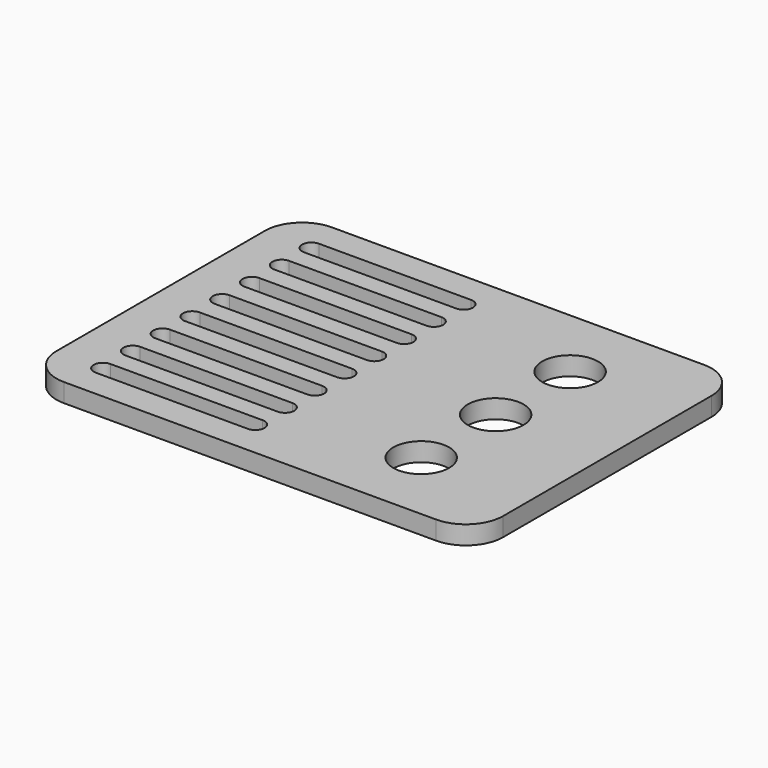
from build123d import *

# Parameters (mm, degrees)
F0_W     = 152.4
F0_H     = 114.3
F0_R     = 9.525
F1_DEPTH = 6.35
F2_R     = 12.7


with BuildPart() as f1:
    # F0 (on Top) → F1 (new body)
    with BuildSketch(Plane.XY):
        Rectangle(F0_W, F0_H)
        with BuildLine():
            Line((-8.885304, -47.623662), (-9.393304, -47.623662))
            Line((-9.393304, -47.623662), (-59.177304, -47.623662))
            ThreePointArc((-59.177304, -47.623662), (-59.307662, -47.626338), (-59.43802, -47.623662))
            Line((-59.43802, -47.623662), (-59.685304, -47.623662))
            ThreePointArc((-59.685304, -47.623662), (-59.815662, -47.626338), (-59.94602, -47.623662))
            Line((-59.94602, -47.623662), (-60.193304, -47.623662))
            ThreePointArc((-60.193304, -47.623662), (-63.499331, -44.515193), (-60.323662, -41.273662))
            Line((-60.323662, -41.273662), (-59.815662, -41.273662))
            Line((-59.815662, -41.273662), (-59.307662, -41.273662))
            Line((-59.307662, -41.273662), (-9.393304, -41.273662))
            Line((-9.393304, -41.273662), (-8.885304, -41.273662))
            Line((-8.885304, -41.273662), (-8.377304, -41.273662))
            ThreePointArc((-8.377304, -41.273662), (-5.202304, -44.448662), (-8.377304, -47.623662))
            Line((-8.377304, -47.623662), (-8.885304, -47.623662))
        make_face(mode=Mode.SUBTRACT)
        with BuildLine():
            Line((-8.885304, -34.923662), (-9.393304, -34.923662))
            Line((-9.393304, -34.923662), (-59.177304, -34.923662))
            ThreePointArc((-59.177304, -34.923662), (-59.307662, -34.926338), (-59.43802, -34.923662))
            Line((-59.43802, -34.923662), (-59.685304, -34.923662))
            ThreePointArc((-59.685304, -34.923662), (-59.815662, -34.926338), (-59.94602, -34.923662))
            Line((-59.94602, -34.923662), (-60.193304, -34.923662))
            ThreePointArc((-60.193304, -34.923662), (-63.499331, -31.815193), (-60.323662, -28.573662))
            Line((-60.323662, -28.573662), (-59.815662, -28.573662))
            Line((-59.815662, -28.573662), (-59.307662, -28.573662))
            Line((-59.307662, -28.573662), (-9.393304, -28.573662))
            Line((-9.393304, -28.573662), (-8.885304, -28.573662))
            Line((-8.885304, -28.573662), (-8.377304, -28.573662))
            ThreePointArc((-8.377304, -28.573662), (-5.202304, -31.748662), (-8.377304, -34.923662))
            Line((-8.377304, -34.923662), (-8.885304, -34.923662))
        make_face(mode=Mode.SUBTRACT)
        with BuildLine():
            Line((-8.885304, -22.223662), (-9.393304, -22.223662))
            Line((-9.393304, -22.223662), (-59.177304, -22.223662))
            ThreePointArc((-59.177304, -22.223662), (-59.307662, -22.226338), (-59.43802, -22.223662))
            Line((-59.43802, -22.223662), (-59.685304, -22.223662))
            ThreePointArc((-59.685304, -22.223662), (-59.815662, -22.226338), (-59.94602, -22.223662))
            Line((-59.94602, -22.223662), (-60.193304, -22.223662))
            ThreePointArc((-60.193304, -22.223662), (-63.499331, -19.115193), (-60.323662, -15.873662))
            Line((-60.323662, -15.873662), (-59.815662, -15.873662))
            Line((-59.815662, -15.873662), (-59.307662, -15.873662))
            Line((-59.307662, -15.873662), (-9.393304, -15.873662))
            Line((-9.393304, -15.873662), (-8.885304, -15.873662))
            Line((-8.885304, -15.873662), (-8.377304, -15.873662))
            ThreePointArc((-8.377304, -15.873662), (-5.202304, -19.048662), (-8.377304, -22.223662))
            Line((-8.377304, -22.223662), (-8.885304, -22.223662))
        make_face(mode=Mode.SUBTRACT)
        with BuildLine():
            Line((-8.885304, -9.523662), (-9.393304, -9.523662))
            Line((-9.393304, -9.523662), (-59.177304, -9.523662))
            ThreePointArc((-59.177304, -9.523662), (-59.307662, -9.526338), (-59.43802, -9.523662))
            Line((-59.43802, -9.523662), (-59.685304, -9.523662))
            ThreePointArc((-59.685304, -9.523662), (-59.815662, -9.526338), (-59.94602, -9.523662))
            Line((-59.94602, -9.523662), (-60.193304, -9.523662))
            ThreePointArc((-60.193304, -9.523662), (-63.499331, -6.415193), (-60.323662, -3.173662))
            Line((-60.323662, -3.173662), (-59.815662, -3.173662))
            Line((-59.815662, -3.173662), (-59.307662, -3.173662))
            Line((-59.307662, -3.173662), (-9.393304, -3.173662))
            Line((-9.393304, -3.173662), (-8.885304, -3.173662))
            Line((-8.885304, -3.173662), (-8.377304, -3.173662))
            ThreePointArc((-8.377304, -3.173662), (-5.202304, -6.348662), (-8.377304, -9.523662))
            Line((-8.377304, -9.523662), (-8.885304, -9.523662))
        make_face(mode=Mode.SUBTRACT)
        with Locations((38.1, -31.75)):
            Circle(F0_R, mode=Mode.SUBTRACT)
        with BuildLine():
            Line((-8.885304, 3.176338), (-9.393304, 3.176338))
            Line((-9.393304, 3.176338), (-59.177304, 3.176338))
            ThreePointArc((-59.177304, 3.176338), (-59.307662, 3.173662), (-59.43802, 3.176338))
            Line((-59.43802, 3.176338), (-59.685304, 3.176338))
            ThreePointArc((-59.685304, 3.176338), (-59.815662, 3.173662), (-59.94602, 3.176338))
            Line((-59.94602, 3.176338), (-60.193304, 3.176338))
            ThreePointArc((-60.193304, 3.176338), (-63.499331, 6.284807), (-60.323662, 9.526338))
            Line((-60.323662, 9.526338), (-59.815662, 9.526338))
            Line((-59.815662, 9.526338), (-59.307662, 9.526338))
            Line((-59.307662, 9.526338), (-9.393304, 9.526338))
            Line((-9.393304, 9.526338), (-8.885304, 9.526338))
            Line((-8.885304, 9.526338), (-8.377304, 9.526338))
            ThreePointArc((-8.377304, 9.526338), (-5.202304, 6.351338), (-8.377304, 3.176338))
            Line((-8.377304, 3.176338), (-8.885304, 3.176338))
        make_face(mode=Mode.SUBTRACT)
        with BuildLine():
            Line((-8.885304, 15.876338), (-9.393304, 15.876338))
            Line((-9.393304, 15.876338), (-59.177304, 15.876338))
            ThreePointArc((-59.177304, 15.876338), (-59.307662, 15.873662), (-59.43802, 15.876338))
            Line((-59.43802, 15.876338), (-59.685304, 15.876338))
            ThreePointArc((-59.685304, 15.876338), (-59.815662, 15.873662), (-59.94602, 15.876338))
            Line((-59.94602, 15.876338), (-60.193304, 15.876338))
            ThreePointArc((-60.193304, 15.876338), (-63.499331, 18.984807), (-60.323662, 22.226338))
            Line((-60.323662, 22.226338), (-59.815662, 22.226338))
            Line((-59.815662, 22.226338), (-59.307662, 22.226338))
            Line((-59.307662, 22.226338), (-9.393304, 22.226338))
            Line((-9.393304, 22.226338), (-8.885304, 22.226338))
            Line((-8.885304, 22.226338), (-8.377304, 22.226338))
            ThreePointArc((-8.377304, 22.226338), (-5.202304, 19.051338), (-8.377304, 15.876338))
            Line((-8.377304, 15.876338), (-8.885304, 15.876338))
        make_face(mode=Mode.SUBTRACT)
        with BuildLine():
            Line((-8.885304, 28.576338), (-9.393304, 28.576338))
            Line((-9.393304, 28.576338), (-59.177304, 28.576338))
            ThreePointArc((-59.177304, 28.576338), (-59.307662, 28.573662), (-59.43802, 28.576338))
            Line((-59.43802, 28.576338), (-59.685304, 28.576338))
            ThreePointArc((-59.685304, 28.576338), (-59.815662, 28.573662), (-59.94602, 28.576338))
            Line((-59.94602, 28.576338), (-60.193304, 28.576338))
            ThreePointArc((-60.193304, 28.576338), (-63.499331, 31.684807), (-60.323662, 34.926338))
            Line((-60.323662, 34.926338), (-59.815662, 34.926338))
            Line((-59.815662, 34.926338), (-59.307662, 34.926338))
            Line((-59.307662, 34.926338), (-9.393304, 34.926338))
            Line((-9.393304, 34.926338), (-8.885304, 34.926338))
            Line((-8.885304, 34.926338), (-8.377304, 34.926338))
            ThreePointArc((-8.377304, 34.926338), (-5.202304, 31.751338), (-8.377304, 28.576338))
            Line((-8.377304, 28.576338), (-8.885304, 28.576338))
        make_face(mode=Mode.SUBTRACT)
        with BuildLine():
            Line((-8.885304, 41.276338), (-9.393304, 41.276338))
            Line((-9.393304, 41.276338), (-59.177304, 41.276338))
            ThreePointArc((-59.177304, 41.276338), (-59.307662, 41.273662), (-59.43802, 41.276338))
            Line((-59.43802, 41.276338), (-59.685304, 41.276338))
            ThreePointArc((-59.685304, 41.276338), (-59.815662, 41.273662), (-59.94602, 41.276338))
            Line((-59.94602, 41.276338), (-60.193304, 41.276338))
            ThreePointArc((-60.193304, 41.276338), (-63.499331, 44.384807), (-60.323662, 47.626338))
            Line((-60.323662, 47.626338), (-59.815662, 47.626338))
            Line((-59.815662, 47.626338), (-59.307662, 47.626338))
            Line((-59.307662, 47.626338), (-9.393304, 47.626338))
            Line((-9.393304, 47.626338), (-8.885304, 47.626338))
            Line((-8.885304, 47.626338), (-8.377304, 47.626338))
            ThreePointArc((-8.377304, 47.626338), (-5.202304, 44.451338), (-8.377304, 41.276338))
            Line((-8.377304, 41.276338), (-8.885304, 41.276338))
        make_face(mode=Mode.SUBTRACT)
        with Locations((38.1, 0)):
            Circle(F0_R, mode=Mode.SUBTRACT)
        with Locations((38.1, 31.75)):
            Circle(F0_R, mode=Mode.SUBTRACT)
    extrude(amount=F1_DEPTH)

    # F2
    f2_edges = [f1.edges().sort_by_distance(p)[0] for p in [
        (-76.2, 57.15, 3.175),
        (-76.2, -57.15, 3.175),
        (76.2, 57.15, 3.175),
        (76.2, -57.15, 3.175),
    ]]
    fillet(f2_edges, radius=F2_R)


solid = f1.part
